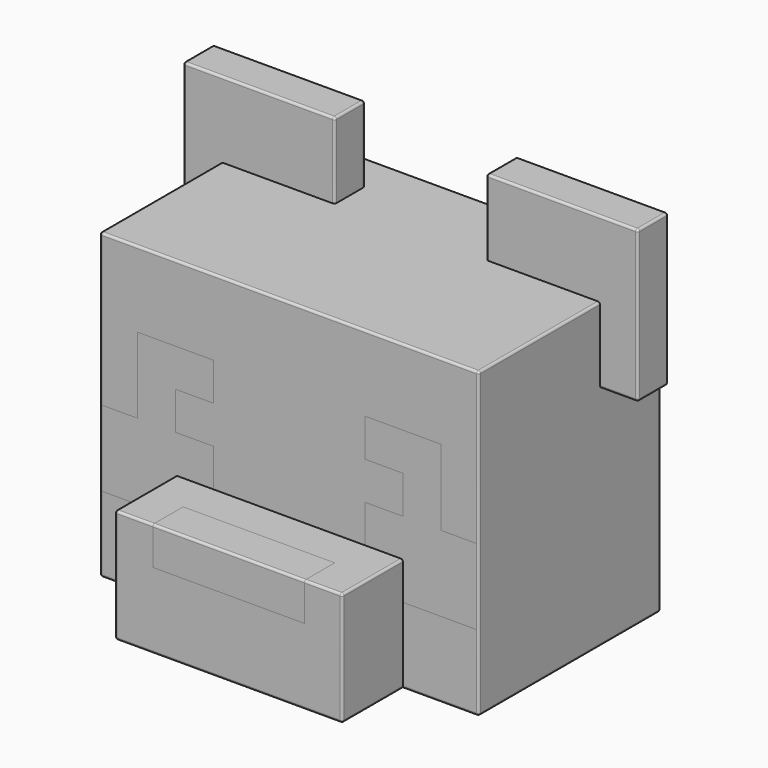
from build123d import *

# Parameters (mm, degrees)
F0_W      = 50.8
F0_H      = 50.8
F1_DEPTH  = 152.4
F2_DEPTH  = 50.8
F3_W      = 101.6
F3_H      = 25.4
F4_DEPTH  = 25.4
F5_DEPTH  = 25.4
F7_W      = 76.2
F7_H      = 50.8
F8_DEPTH  = 25.4
F9_R      = 1.524
F9_2_R    = 1.524
F9_3_R    = 1.524
F9_4_R    = 1.524
F12_DEPTH = 25.4
F13_DEPTH = 25.4


with BuildPart() as f1:
    # F0 (on Front) → F1 (new body)
    with BuildSketch(Plane.XZ):
        Polygon((50.8, 25.4), (50.8, 50.8), (101.6, 50.8), (101.6, 0), (127, 0), (127, 101.6), (-127, 101.6), (-127, 0), (-101.6, 0), (-101.6, 50.8), (-50.8, 50.8), (-50.8, 25.4), (-76.2, 25.4), (-76.2, 0), (-50.8, 0), (-50.8, -25.4), (50.8, -25.4), (50.8, 0), (76.2, 0), (76.2, 25.4), align=None)
        Polygon((-76.2, -25.4), (-50.8, -25.4), (-50.8, 0), (-76.2, 0), (-76.2, 25.4), (-50.8, 25.4), (-50.8, 50.8), (-101.6, 50.8), (-101.6, 0), (-127, 0), (-127, -50.8), (-76.2, -50.8), align=None)
        Polygon((101.6, 50.8), (50.8, 50.8), (50.8, 25.4), (76.2, 25.4), (76.2, 0), (50.8, 0), (50.8, -25.4), (76.2, -25.4), (76.2, -50.8), (127, -50.8), (127, 0), (101.6, 0), align=None)
        Polygon((-76.2, -25.4), (-50.8, -25.4), (-50.8, 0), (-76.2, 0), (-76.2, 25.4), (-50.8, 25.4), (-50.8, 50.8), (-101.6, 50.8), (-101.6, 0), (-127, 0), (-127, -50.8), (-76.2, -50.8), align=None)
        Polygon((101.6, 50.8), (50.8, 50.8), (50.8, 25.4), (76.2, 25.4), (76.2, 0), (50.8, 0), (50.8, -25.4), (76.2, -25.4), (76.2, -50.8), (127, -50.8), (127, 0), (101.6, 0), align=None)
        with Locations((-101.6, -76.2)):
            Rectangle(F0_W, F0_H)
        Polygon((76.2, -25.4), (50.8, -25.4), (-50.8, -25.4), (-76.2, -25.4), (-76.2, -50.8), (-76.2, -101.6), (76.2, -101.6), (76.2, -50.8), align=None)
        with Locations((101.6, -76.2)):
            Rectangle(F0_W, F0_H)
    extrude(amount=-F1_DEPTH)

    # F0 (on Front) → F2 (join)
    with BuildSketch(Plane.XZ):
        Polygon((76.2, -25.4), (50.8, -25.4), (-50.8, -25.4), (-76.2, -25.4), (-76.2, -50.8), (-76.2, -101.6), (76.2, -101.6), (76.2, -50.8), align=None)
    extrude(amount=F2_DEPTH)

    # F3 (on face) → F4 (cut)
    with BuildSketch(Plane.XZ.offset(50.8)):
        with Locations((0, -38.1)):
            Rectangle(F3_W, F3_H)
    extrude(amount=-F4_DEPTH, mode=Mode.SUBTRACT)


with BuildPart() as f5:
    # F5 (new): a face of the model
    f5_faces = [f1.part.faces().sort_by_distance(p)[0] for p in [
        (0, -25.4, -38.1),
    ]]
    extrude(f5_faces, amount=F5_DEPTH)

    # F9#2
    f9_2_edges = [f5.edges().sort_by_distance(p)[0] for p in [
        (0, -50.8, -25.4),
    ]]
    fillet(f9_2_edges, radius=F9_2_R)


with BuildPart() as f8:
    # F7 (on offset) → F8 (new body)
    with BuildSketch(Plane.XZ.offset(-101.6)):
        with Locations((88.9, 76.2)):
            Rectangle(F7_W, F7_H)
        Polygon((50.8, 152.4), (50.8, 101.6), (127, 101.6), (127, 50.8), (152.4, 50.8), (152.4, 152.4), align=None)
    extrude(amount=-F8_DEPTH)

    # F9#3
    f9_3_edges = [f8.edges().sort_by_distance(p)[0] for p in [
        (101.6, 101.6, 50.8),
        (152.4, 101.6, 101.6),
        (101.6, 101.6, 152.4),
        (50.8, 101.6, 101.6),
        (101.6, 127, 50.8),
        (152.4, 127, 101.6),
        (101.6, 127, 152.4),
        (50.8, 127, 101.6),
        (50.8, 114.3, 50.8),
        (152.4, 114.3, 50.8),
        (152.4, 114.3, 152.4),
        (50.8, 114.3, 152.4),
    ]]
    fillet(f9_3_edges, radius=F9_3_R)


with BuildPart() as f8b:
    # F7 (on offset) → F8, piece 2 (new body)
    with BuildSketch(Plane.XZ.offset(-101.6)):
        Polygon((-127, 50.8), (-50.8, 50.8), (-50.8, 101.6), (-50.8, 152.4), (-152.4, 152.4), (-152.4, 50.8), align=None)
    extrude(amount=-F8_DEPTH)

    # F9#4
    f9_4_edges = [f8b.edges().sort_by_distance(p)[0] for p in [
        (-50.8, 127, 101.6),
        (-101.6, 127, 152.4),
        (-152.4, 127, 101.6),
        (-101.6, 127, 50.8),
        (-101.6, 101.6, 50.8),
        (-50.8, 101.6, 101.6),
        (-101.6, 101.6, 152.4),
        (-152.4, 101.6, 101.6),
        (-50.8, 114.3, 50.8),
        (-152.4, 114.3, 50.8),
        (-50.8, 114.3, 152.4),
        (-152.4, 114.3, 152.4),
    ]]
    fillet(f9_4_edges, radius=F9_4_R)


with BuildPart() as f1_1:
    add(f1.part)

    # F9
    f9_edges = [f1_1.edges().sort_by_distance(p)[0] for p in [
        (-63.5, -50.8, -25.4),
        (63.5, -50.8, -25.4),
        (-127, 76.2, -101.6),
        (0, 152.4, -101.6),
        (127, 76.2, -101.6),
        (101.6, 0, -101.6),
        (76.2, -25.4, -101.6),
        (0, -50.8, -101.6),
        (-76.2, -25.4, -101.6),
        (-101.6, 0, -101.6),
        (0, 152.4, 101.6),
        (-127, 152.4, 0),
        (127, 152.4, 0),
        (-127, 76.2, 101.6),
        (127, 76.2, 101.6),
        (76.2, -50.8, -63.5),
        (76.2, -25.4, -25.4),
        (-76.2, -50.8, -63.5),
        (-76.2, -25.4, -25.4),
        (127, 0, 0),
        (0, 0, 101.6),
        (-127, 0, 0),
    ]]
    fillet(f9_edges, radius=F9_R)

    # F10: cut F8, F8b
    add(f8.part, mode=Mode.SUBTRACT)
    add(f8b.part, mode=Mode.SUBTRACT)

    # F11 (on Front) → F12 (cut)
    with BuildSketch(Plane.XZ):
        Polygon((-101.6, 50.8), (-101.6, 0), (-125.476, 0), (-125.476, -50.8), (-76.2, -50.8), (-76.2, -25.4), (-50.8, -25.4), (-50.8, 0), (-76.2, 0), (-76.2, 25.4), (-50.8, 25.4), (-50.8, 50.8), align=None)
        Polygon((125.476, -50.8), (125.476, 0), (101.6, 0), (101.6, 50.8), (50.8, 50.8), (50.8, 25.4), (76.2, 25.4), (76.2, 0), (50.8, 0), (50.8, -25.4), (76.2, -25.4), (76.2, -50.8), align=None)
    extrude(amount=-F12_DEPTH, mode=Mode.SUBTRACT)


with BuildPart() as f13:
    # F11 (on Front) → F13 (new body)
    with BuildSketch(Plane.XZ):
        Polygon((-101.6, 50.8), (-101.6, 0), (-125.476, 0), (-125.476, -50.8), (-76.2, -50.8), (-76.2, -25.4), (-50.8, -25.4), (-50.8, 0), (-76.2, 0), (-76.2, 25.4), (-50.8, 25.4), (-50.8, 50.8), align=None)
    extrude(amount=-F13_DEPTH)


with BuildPart() as f13b:
    # F11 (on Front) → F13, piece 2 (new body)
    with BuildSketch(Plane.XZ):
        Polygon((125.476, -50.8), (125.476, 0), (101.6, 0), (101.6, 50.8), (50.8, 50.8), (50.8, 25.4), (76.2, 25.4), (76.2, 0), (50.8, 0), (50.8, -25.4), (76.2, -25.4), (76.2, -50.8), align=None)
    extrude(amount=-F13_DEPTH)


solid = Compound([f5.part, f8.part, f8b.part, f1_1.part, f13.part, f13b.part])
